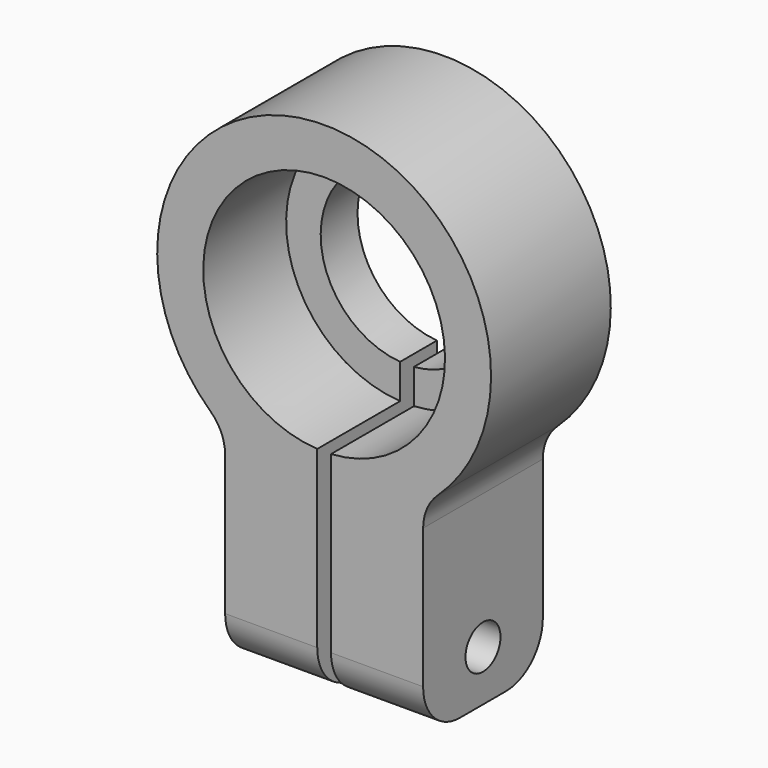
from build123d import *

# Parameters (mm, degrees)
F1_DEPTH = 6.5
F2_DEPTH = 2
F3_R     = 0.95
F4_DEPTH = 25
F5_R     = 2
F6_R     = 2


with BuildPart() as f1:
    # F0 (on Front) → F1 (new body)
    with BuildSketch(Plane.XZ):
        with BuildLine():
            Line((4.29925, -14.837718), (4.29925, -5.837718))
            ThreePointArc((4.29925, -5.837718), (0, 7.25), (-4.29925, -5.837718))
            Line((-4.29925, -5.837718), (-4.29925, -14.837718))
            Line((-4.29925, -14.837718), (-0.29925, -14.837718))
            Line((-0.29925, -14.837718), (-0.29925, -5.241464))
            ThreePointArc((-0.29925, -5.241464), (0, 5.25), (0.29925, -5.241464))
            Line((0.29925, -5.241464), (0.29925, -14.837718))
            Line((0.29925, -14.837718), (4.29925, -14.837718))
        make_face()
    extrude(amount=F1_DEPTH)

    # F0 (on Front) → F2 (join)
    with BuildSketch(Plane.XZ):
        with BuildLine():
            Line((0.29925, -3.738041), (0.29925, -5.241464))
            ThreePointArc((0.29925, -5.241464), (0, 5.25), (-0.29925, -5.241464))
            Line((-0.29925, -5.241464), (-0.29925, -3.738041))
            ThreePointArc((-0.29925, -3.738041), (0, 3.75), (0.29925, -3.738041))
        make_face()
    extrude(amount=F2_DEPTH)

    # F3 (on face) → F4 (cut)
    with BuildSketch(Plane.YZ.offset(4.29925)):
        with Locations((-3.25, -12.637718)):
            Circle(F3_R)
    extrude(amount=-F4_DEPTH, mode=Mode.SUBTRACT)

    # F5
    f5_edges = [f1.edges().sort_by_distance(p)[0] for p in [
        (2.29925, 0, -14.837718),
        (-2.29925, 0, -14.837718),
        (2.29925, -6.5, -14.837718),
        (-2.29925, -6.5, -14.837718),
    ]]
    fillet(f5_edges, radius=F5_R)

    # F6
    f6_edges = [f1.edges().sort_by_distance(p)[0] for p in [
        (4.29925, -3.25, -5.837718),
        (-4.29925, -3.25, -5.837718),
    ]]
    fillet(f6_edges, radius=F6_R)


solid = f1.part
